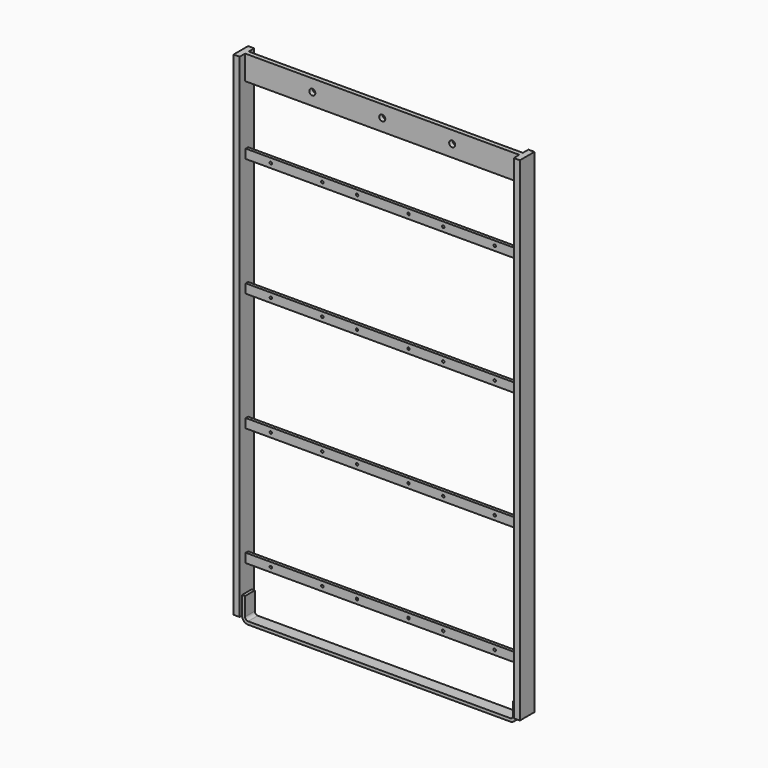
from build123d import *

# Parameters (mm, degrees)
F0_W     = 572.516
F0_H     = 50.8
F1_DEPTH = 4.5593
F2_DEPTH = 19.05
F3_R     = 6.35
F4_DEPTH = 25.4
F6_W     = 572.516
F6_H     = 19.05
F6_R     = 2.54
F7_DEPTH = 3.175
F8_DEPTH = 12.7


with BuildPart() as f1:
    # F0 (on Front) → F1 (new body, symmetric)
    with BuildSketch(Plane.XZ):
        with Locations((0, 489.5977)):
            Rectangle(F0_W, F0_H)
    extrude(amount=F1_DEPTH, both=True)

    # F0 (on Front) → F2 (join, symmetric)
    with BuildSketch(Plane.XZ):
        Polygon((-286.258, 464.1977), (-286.258, 514.9977), (-298.958, 514.9977), (-298.958, -514.9977), (-286.258, -514.9977), align=None)
        Polygon((298.958, 514.9977), (286.258, 514.9977), (286.258, 464.1977), (286.258, -514.9977), (298.958, -514.9977), align=None)
    extrude(amount=F2_DEPTH, both=True)

    # F3 (on face) → F4 (cut)
    with BuildSketch(Plane.XZ.offset(4.5593)):
        with Locations((146.05, 489.5977)):
            Circle(F3_R)
        with Locations((-146.05, 489.5977)):
            Circle(F3_R)
        with Locations((0, 489.5977)):
            Circle(F3_R)
    extrude(amount=-F4_DEPTH, mode=Mode.SUBTRACT)

    # F6 (on Front) → F7 (join, symmetric)
    with BuildSketch(Plane.XZ):
        with Locations((0, -412.7627)):
            Rectangle(F6_W, F6_H)
        with Locations((-233.7562, -412.7627)):
            Circle(F6_R, mode=Mode.SUBTRACT)
        with Locations((-126.2634, -412.7627)):
            Circle(F6_R, mode=Mode.SUBTRACT)
        with Locations((-53.7464, -412.7627)):
            Circle(F6_R, mode=Mode.SUBTRACT)
        with Locations((53.7464, -412.7627)):
            Circle(F6_R, mode=Mode.SUBTRACT)
        with Locations((126.2634, -412.7627)):
            Circle(F6_R, mode=Mode.SUBTRACT)
        with Locations((233.7562, -412.7627)):
            Circle(F6_R, mode=Mode.SUBTRACT)
        with Locations((0, -165.1127)):
            Rectangle(F6_W, F6_H)
        with Locations((-233.7562, -165.1127)):
            Circle(F6_R, mode=Mode.SUBTRACT)
        with Locations((-126.2634, -165.1127)):
            Circle(F6_R, mode=Mode.SUBTRACT)
        with Locations((-53.7464, -165.1127)):
            Circle(F6_R, mode=Mode.SUBTRACT)
        with Locations((53.7464, -165.1127)):
            Circle(F6_R, mode=Mode.SUBTRACT)
        with Locations((126.2634, -165.1127)):
            Circle(F6_R, mode=Mode.SUBTRACT)
        with Locations((233.7562, -165.1127)):
            Circle(F6_R, mode=Mode.SUBTRACT)
        with Locations((0, 82.5373)):
            Rectangle(F6_W, F6_H)
        with Locations((-233.7562, 82.5373)):
            Circle(F6_R, mode=Mode.SUBTRACT)
        with Locations((-126.2634, 82.5373)):
            Circle(F6_R, mode=Mode.SUBTRACT)
        with Locations((-53.7464, 82.5373)):
            Circle(F6_R, mode=Mode.SUBTRACT)
        with Locations((53.7464, 82.5373)):
            Circle(F6_R, mode=Mode.SUBTRACT)
        with Locations((126.2634, 82.5373)):
            Circle(F6_R, mode=Mode.SUBTRACT)
        with Locations((233.7562, 82.5373)):
            Circle(F6_R, mode=Mode.SUBTRACT)
        with Locations((0, 330.1873)):
            Rectangle(F6_W, F6_H)
        with Locations((-233.7562, 330.1873)):
            Circle(F6_R, mode=Mode.SUBTRACT)
        with Locations((-126.2634, 330.1873)):
            Circle(F6_R, mode=Mode.SUBTRACT)
        with Locations((-53.7464, 330.1873)):
            Circle(F6_R, mode=Mode.SUBTRACT)
        with Locations((53.7464, 330.1873)):
            Circle(F6_R, mode=Mode.SUBTRACT)
        with Locations((126.2634, 330.1873)):
            Circle(F6_R, mode=Mode.SUBTRACT)
        with Locations((233.7562, 330.1873)):
            Circle(F6_R, mode=Mode.SUBTRACT)
    extrude(amount=F7_DEPTH, both=True)

    # F5 (on Front) → F8 (join, symmetric)
    with BuildSketch(Plane.XZ):
        with BuildLine():
            Line((-279.9461, -476.8977), (-286.2961, -476.8977))
            Line((-286.2961, -476.8977), (-286.2961, -514.9977))
            ThreePointArc((-286.2961, -514.9977), (-282.576356, -523.977956), (-273.5961, -527.6977))
            Line((-273.5961, -527.6977), (273.5961, -527.6977))
            ThreePointArc((273.5961, -527.6977), (282.576356, -523.977956), (286.2961, -514.9977))
            Line((286.2961, -514.9977), (286.2961, -487.987315))
            Line((286.2961, -487.987315), (279.9461, -487.987315))
            Line((279.9461, -487.987315), (279.9461, -514.9977))
            ThreePointArc((279.9461, -514.9977), (278.086228, -519.487828), (273.5961, -521.3477))
            Line((273.5961, -521.3477), (-273.5961, -521.3477))
            ThreePointArc((-273.5961, -521.3477), (-278.086228, -519.487828), (-279.9461, -514.9977))
            Line((-279.9461, -514.9977), (-279.9461, -476.8977))
        make_face()
    extrude(amount=F8_DEPTH, both=True)


solid = f1.part
